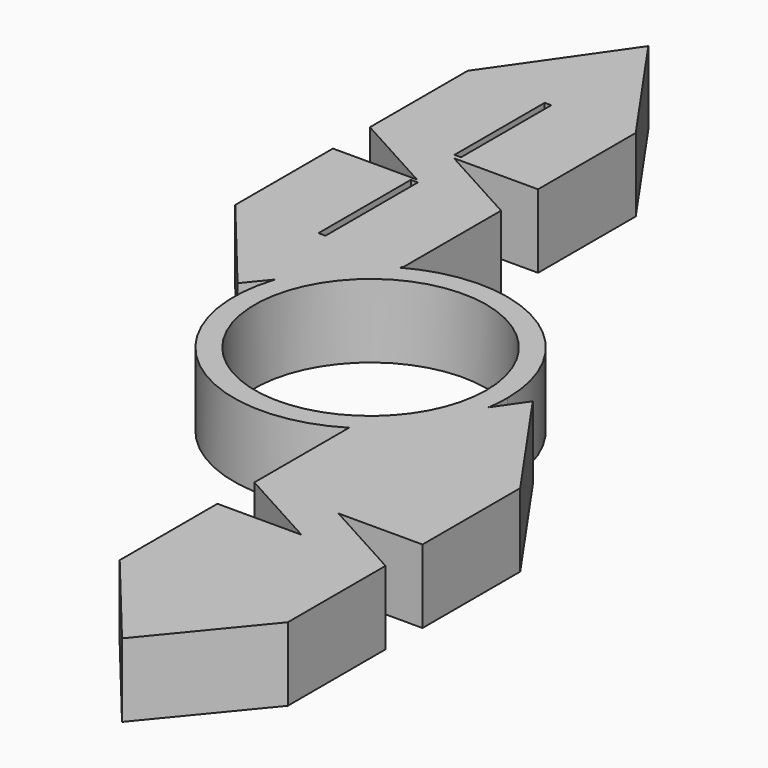
from build123d import *

# Parameters (mm, degrees)
F0_R     = 11.025
F1_DEPTH = 7


with BuildPart() as f1:
    # F0 (on Top) → F1 (new body)
    with BuildSketch(Plane.XY):
        with BuildLine():
            ThreePointArc((12.8607921453, -2.061710365), (12.9838831161, -1.0341196545), (13.0249999706, 0))
            ThreePointArc((13.0249999706, 0), (6.5569336334, 11.254210126), (-6.423329526, 11.330995633))
            Line((-6.423329526, 11.330995633), (-12.3569446603, 4.1178323055))
            ThreePointArc((-12.3569446603, 4.1178323055), (-8.0930947102, -10.2055103863), (6.8250050843, -11.0936887388))
            Line((6.8250050843, -11.0936887388), (6.8250050843, -10.7323580555))
            Line((6.8250050843, -10.7323580555), (12.8607921453, -2.061710365))
        make_face()
        Circle(F0_R, mode=Mode.SUBTRACT)
        with BuildLine():
            Line((-12.3569446603, 4.1178323055), (-6.423329526, 11.330995633))
            ThreePointArc((-6.423329526, 11.330995633), (-10.0589316493, 8.2745705815), (-12.3569446603, 4.1178323055))
        make_face()
        with BuildLine():
            ThreePointArc((-12.3569446603, 4.1178323055), (-10.0589316493, 8.2745705815), (-6.423329526, 11.330995633))
            Line((-6.423329526, 11.330995633), (-6.1813540831, 11.6251516156))
            Line((-6.1813540831, 11.6251516156), (-6.1813540831, 23.2478915714))
            Line((-6.1813540831, 23.2478915714), (-14.1813540831, 27.6478952728))
            Line((-14.1813540831, 27.6478952728), (-6.1813540831, 27.6478952728))
            Line((-6.1813540831, 27.6478952728), (-6.1813540831, 39.2706352286))
            Line((-6.1813540831, 39.2706352286), (-14.1813540831, 50.762952771))
            Line((-14.1813540831, 50.762952771), (-22.1813540831, 39.2706352286))
            Line((-22.1813540831, 39.2706352286), (-22.1813540831, 27.6478952728))
            Line((-22.1813540831, 27.6478952728), (-14.1813540831, 23.2478915714))
            Line((-14.1813540831, 23.2478915714), (-22.1813540831, 23.2478915714))
            Line((-22.1813540831, 23.2478915714), (-22.1813540831, 11.6251516156))
            Line((-22.1813540831, 11.6251516156), (-14.1813540831, 1.900000032))
            Line((-14.1813540831, 1.900000032), (-12.3569446603, 4.1178323055))
        make_face()
        Polygon((-14.5165706053, 22.92711474), (-14.1813540831, 22.92711474), (-13.8461375609, 22.92711474), (-13.8461375609, 11.9459284469), (-14.1813540831, 11.9459284469), (-14.5165706053, 11.9459284469), align=None, mode=Mode.SUBTRACT)
        Polygon((-13.8690257445, 28.0980104581), (-14.1813540831, 28.0980104581), (-14.4936824217, 28.0980104581), (-14.4936824217, 38.8205200434), (-14.1813540831, 38.8205200434), (-13.8690257445, 38.8205200434), align=None, mode=Mode.SUBTRACT)
        with BuildLine():
            Line((14.8250050843, 0.759959487), (12.8607921453, -2.061710365))
            ThreePointArc((12.8607921453, -2.061710365), (10.829441882, -7.2369753873), (6.8250050843, -11.0936887388))
            Line((6.8250050843, -11.0936887388), (6.8250050843, -22.3550980112))
            Line((6.8250050843, -22.3550980112), (14.8250050843, -26.7551017127))
            Line((14.8250050843, -26.7551017127), (6.8250050843, -26.7551017127))
            Line((6.8250050843, -26.7551017127), (6.8250050843, -38.3778416685))
            Line((6.8250050843, -38.3778416685), (14.8250050843, -48.102993252))
            Line((14.8250050843, -48.102993252), (22.8250050843, -38.3778416685))
            Line((22.8250050843, -38.3778416685), (22.8250050843, -26.7551017127))
            Line((22.8250050843, -26.7551017127), (14.8250050843, -22.3550980112))
            Line((14.8250050843, -22.3550980112), (22.8250050843, -22.3550980112))
            Line((22.8250050843, -22.3550980112), (22.8250050843, -10.7323580555))
            Line((22.8250050843, -10.7323580555), (14.8250050843, 0.759959487))
        make_face()
        with BuildLine():
            ThreePointArc((6.8250050843, -11.0936887388), (10.829441882, -7.2369753873), (12.8607921453, -2.061710365))
            Line((12.8607921453, -2.061710365), (6.8250050843, -10.7323580555))
            Line((6.8250050843, -10.7323580555), (6.8250050843, -11.0936887388))
        make_face()
    extrude(amount=F1_DEPTH)


solid = f1.part
